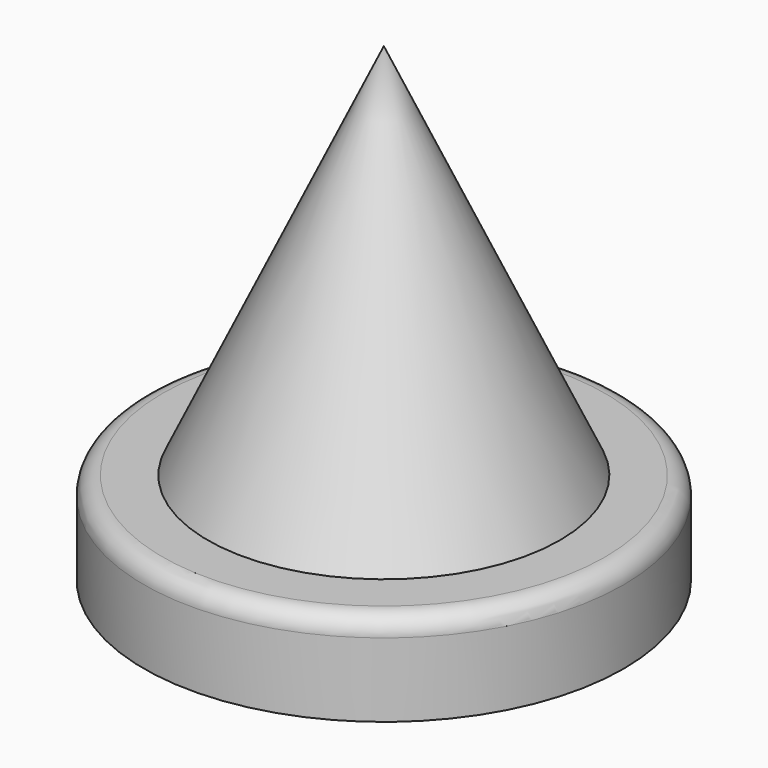
from build123d import *

# Parameters (mm, degrees)
F0_R      = 65.9669270207
F1_DEPTH  = 25.4
F2_R      = 57.1573615092
F3_DEPTH  = 17.78
F4_R      = 65.9669270207
F4_R_2    = 55.5551469753
F6_DEPTH  = 65.8464431763
F7_R      = 5.08
F10_R     = 60.2787250823
F11_DEPTH = 203.2
F11_TAPER = 25


with BuildPart() as f1:
    # F0 (on Top) → F1 (new body)
    with BuildSketch(Plane.XY):
        Circle(F0_R)
    extrude(amount=F1_DEPTH)

    # F2 (on Top) → F3 (cut)
    with BuildSketch(Plane.XY):
        Circle(F2_R)
    extrude(amount=-F3_DEPTH, mode=Mode.SUBTRACT)

    # F4 (on face) → F6 (cut)
    with BuildSketch(Plane.XY.offset(25.4)):
        Circle(F4_R)
        Circle(F4_R_2, mode=Mode.SUBTRACT)
        Circle(F4_R_2)
    extrude(amount=F6_DEPTH, mode=Mode.SUBTRACT)

    # F7
    f7_edges = [f1.edges().sort_by_distance(p)[0] for p in [
        (-65.966927, 0, 25.4),
    ]]
    fillet(f7_edges, radius=F7_R)

    # F10 (on face) → F11 (join)
    with BuildSketch(Plane.XY):
        Circle(F10_R)
    extrude(amount=F11_DEPTH, taper=F11_TAPER)


solid = f1.part
